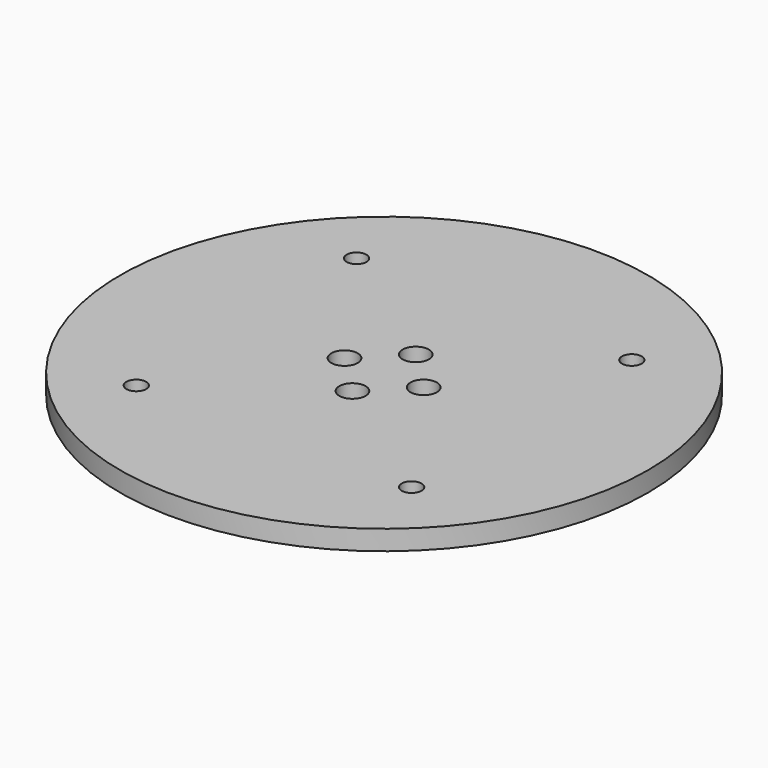
from build123d import *

# Parameters (mm, degrees)
F0_R     = 40
F0_R_2   = 1.5
F0_R_3   = 2
F1_DEPTH = 3


with BuildPart() as f1:
    # F0 (on Top) → F1 (new body)
    with BuildSketch(Plane.XY):
        Circle(F0_R)
        with Locations((-20.85965, -20.85965)):
            Circle(F0_R_2, mode=Mode.SUBTRACT)
        with Locations((20.85965, -20.85965)):
            Circle(F0_R_2, mode=Mode.SUBTRACT)
        with Locations((0, -6)):
            Circle(F0_R_3, mode=Mode.SUBTRACT)
        with Locations((-6, 0)):
            Circle(F0_R_3, mode=Mode.SUBTRACT)
        with Locations((-20.85965, 20.85965)):
            Circle(F0_R_2, mode=Mode.SUBTRACT)
        with Locations((6, 0)):
            Circle(F0_R_3, mode=Mode.SUBTRACT)
        with Locations((0, 6)):
            Circle(F0_R_3, mode=Mode.SUBTRACT)
        with Locations((20.85965, 20.85965)):
            Circle(F0_R_2, mode=Mode.SUBTRACT)
    extrude(amount=F1_DEPTH)


solid = f1.part
